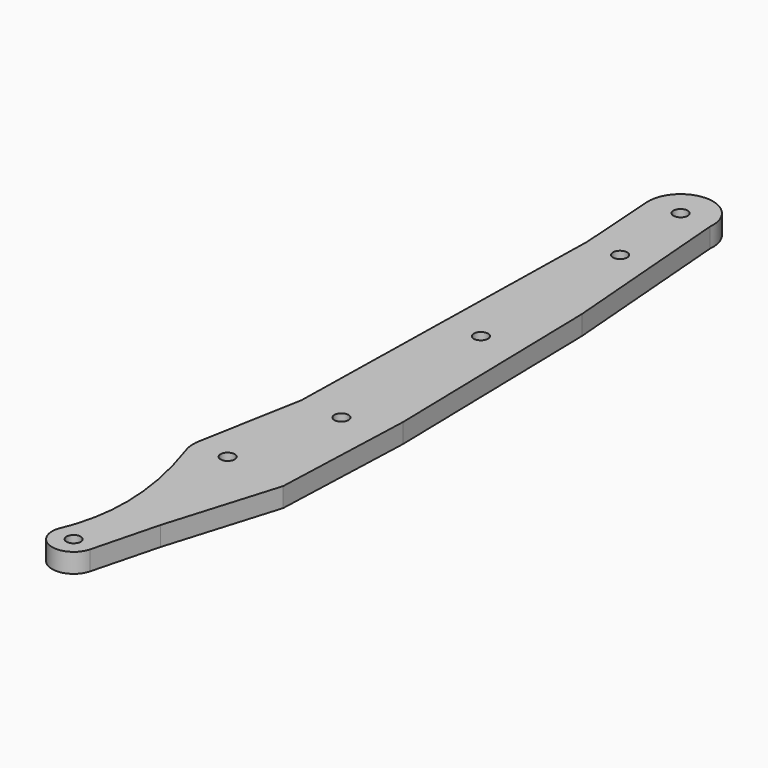
from build123d import *

# Parameters (mm, degrees)
F0_R     = 2.0955
F1_DEPTH = 2.8575


with BuildPart() as f1:
    # F0 (on Top) → F1 (new body, symmetric)
    with BuildSketch(Plane.XY):
        with BuildLine():
            add(Edge.make_bspline(
                [(-15.043923, -57.760203), (-8.713239, -76.308244), (-7.463255, -92.745827), (-13.286423, -106.208738)],
                knots=[0, 0, 0, 0, 48.480402, 48.480402, 48.480402, 48.480402], degree=3))
            ThreePointArc((-13.286423, -106.208738), (-9.519847, -114.735645), (-1.310509, -110.319538))
            Line((-1.310509, -110.319538), (3.762122, -90.705147))
            Line((3.762122, -90.705147), (13.687521, -57.913521))
            Line((13.687521, -57.913521), (15.28925, -15.740052))
            Line((15.28925, -15.740052), (13.799156, 52.087657))
            Line((13.799156, 52.087657), (9.600569, 104.526372))
            ThreePointArc((9.600569, 104.526372), (0.331303, 115.084252), (-9.371656, 104.923508))
            Line((-9.371656, 104.923508), (-7.772594, 81.097612))
            Line((-7.772594, 81.097612), (-9.776061, -21.747766))
            Line((-9.776061, -21.747766), (-15.423083, -52.652102))
            ThreePointArc((-15.423083, -52.652102), (-15.560691, -55.230439), (-15.043923, -57.760203))
        make_face()
        with Locations((-7.458246, -108.729623)):
            Circle(F0_R, mode=Mode.SUBTRACT)
        with Locations((-5.428565, -54.478358)):
            Circle(F0_R, mode=Mode.SUBTRACT)
        with Locations((2.794669, -22.807194)):
            Circle(F0_R, mode=Mode.SUBTRACT)
        with Locations((2.526249, 28.932089)):
            Circle(F0_R, mode=Mode.SUBTRACT)
        with Locations((2.253347, 80.601282)):
            Circle(F0_R, mode=Mode.SUBTRACT)
        with Locations((0.131964, 105.561338)):
            Circle(F0_R, mode=Mode.SUBTRACT)
    extrude(amount=F1_DEPTH, both=True)


solid = f1.part
